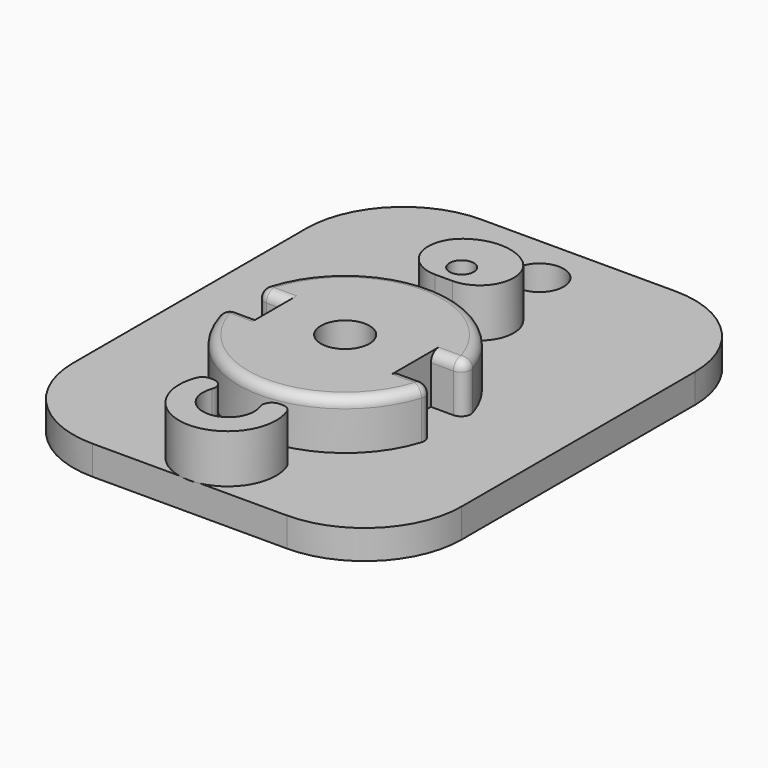
from build123d import *

# Parameters (mm, degrees)
SKETCH_R      = 2.5
PAD_DEPTH     = 5
SKETCH001_W   = 40
SKETCH001_H   = 50
SKETCH001_R   = 2.25
SKETCH001_R_2 = 2.5
PAD001_DEPTH  = 3
FILLET_R      = 10
PAD002_DEPTH  = 5
SKETCH003_R   = 1.25
SKETCH003_R_2 = 2.65
POCKET_DEPTH  = 8.001
FILLET001_R   = 1
FILLET002_R   = 1
FILLET003_R   = 1
FILLET004_R   = 3.5
FILLET005_R   = 1
FILLET006_R   = 1
FILLET007_R   = 1
FILLET008_R   = 1


with BuildPart() as part:
    # Sketch → Pad (new body)
    with BuildSketch(Plane.XY):
        with BuildLine():
            ThreePointArc((-10.842791, -1.853074), (-0.074616, -10.999747), (10.816654, -2))
            Line((7.228416, -2), (10.816654, -2))
            Line((7.228416, -2), (7.228416, 2))
            Line((10.816654, 2), (7.228416, 2))
            ThreePointArc((10.816654, 2), (-0.074616, 10.999747), (-10.842791, 1.853074))
            Line((-10.842791, 1.853074), (-7.26747, 1.853074))
            Line((-7.26747, -1.853074), (-7.26747, 1.853074))
            Line((-7.26747, -1.853074), (-10.842791, -1.853074))
        make_face()
        Circle(SKETCH_R, mode=Mode.SUBTRACT)
    extrude(amount=PAD_DEPTH)

    # Sketch001 → Pad001 (join)
    with BuildSketch(Plane.XY):
        with Locations((0, 5)):
            Rectangle(SKETCH001_W, SKETCH001_H)
        Circle(SKETCH001_R, mode=Mode.SUBTRACT)
        with Locations((0, 25)):
            Circle(SKETCH001_R_2, mode=Mode.SUBTRACT)
        with Locations((0, -15)):
            Circle(SKETCH001_R_2, mode=Mode.SUBTRACT)
    extrude(amount=-PAD001_DEPTH)

    # Fillet
    fillet_edges = [part.edges().sort_by_distance(p)[0] for p in [
        (20, -20, -1.5),
        (-20, -20, -1.5),
        (-20, 30, -1.5),
        (20, 30, -1.5),
    ]]
    fillet(fillet_edges, radius=FILLET_R)

    # Sketch002 (on Face2 of Fillet) → Pad002 (join)
    with BuildSketch(Plane.XY):
        with BuildLine():
            ThreePointArc((-4.371719, -12.7), (0, -20.126535), (4.371719, -12.7))
            Line((4.371719, -12.7), (-4.371719, -12.7))
        make_face()
        with BuildLine():
            ThreePointArc((4.439595, 12.7), (0, 20), (-4.439595, 12.7))
            Line((4.439595, 12.7), (-4.439595, 12.7))
        make_face()
    extrude(amount=PAD002_DEPTH)

    # Sketch003 (on Face30 of Pad002) → Pocket (cut, through all)
    with BuildSketch(Plane.XY.offset(5)):
        with Locations((0, 15)):
            Circle(SKETCH003_R)
        with Locations((0, -15)):
            Circle(SKETCH003_R_2)
    extrude(amount=-POCKET_DEPTH, mode=Mode.SUBTRACT)

    # Fillet001
    fillet001_edges = [part.edges().sort_by_distance(p)[0] for p in [
        (1.316245, -12.7, 2.5),
        (-1.316245, -12.7, 2.5),
    ]]
    fillet(fillet001_edges, radius=FILLET001_R)

    # Fillet002
    fillet002_edges = [part.edges().sort_by_distance(p)[0] for p in [
        (-4.371719, -12.7, 2.5),
    ]]
    fillet(fillet002_edges, radius=FILLET002_R)

    # Fillet003
    fillet003_edges = [part.edges().sort_by_distance(p)[0] for p in [
        (4.371719, -12.7, 2.5),
    ]]
    fillet(fillet003_edges, radius=FILLET003_R)

    # Fillet004
    fillet004_edges = [part.edges().sort_by_distance(p)[0] for p in [
        (-4.439595, 12.7, 2.5),
        (4.439595, 12.7, 2.5),
    ]]
    fillet(fillet004_edges, radius=FILLET004_R)

    # Fillet005
    fillet005_edges = [part.edges().sort_by_distance(p)[0] for p in [
        (-10.842791, 1.853074, 2.5),
        (-10.842791, -1.853074, 2.5),
    ]]
    fillet(fillet005_edges, radius=FILLET005_R)

    # Fillet006
    fillet006_edges = [part.edges().sort_by_distance(p)[0] for p in [
        (10.816654, 2, 2.5),
        (10.816654, -2, 2.5),
    ]]
    fillet(fillet006_edges, radius=FILLET006_R)

    # Fillet007
    fillet007_edges = [part.edges().sort_by_distance(p)[0] for p in [
        (-0.084509, -10.999675, 5),
    ]]
    fillet(fillet007_edges, radius=FILLET007_R)

    # Fillet008
    fillet008_edges = [part.edges().sort_by_distance(p)[0] for p in [
        (-0.084509, 10.999675, 5),
    ]]
    fillet(fillet008_edges, radius=FILLET008_R)


solid = part.part
